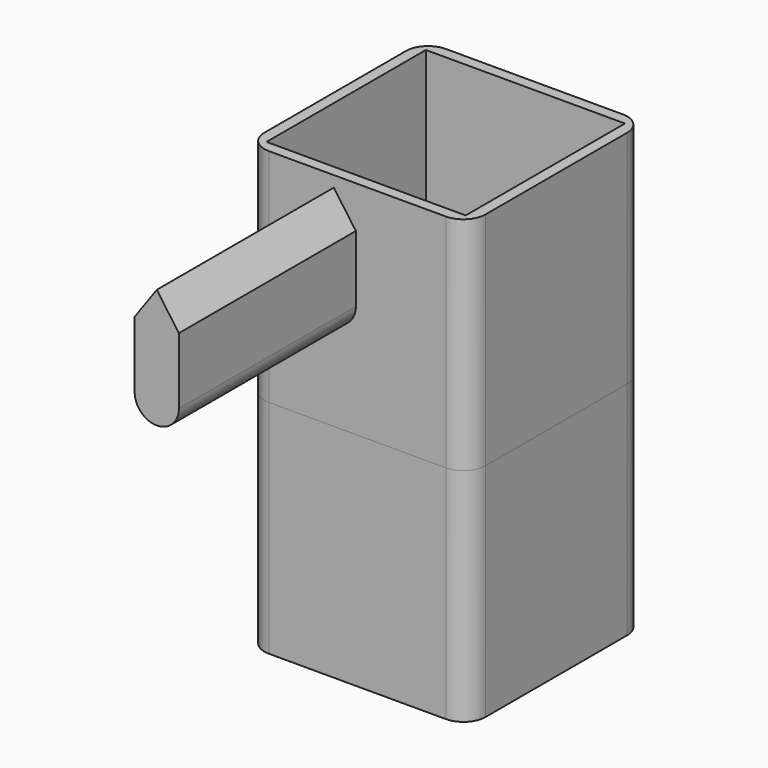
from build123d import *

# Parameters (mm, degrees)
F0_W     = 50
F0_H     = 50
F1_DEPTH = 50
F2_R     = 5
F3_DEPTH = 50
F4_W     = 50
F4_H     = 50
F5_DEPTH = 50
F7_DEPTH = 50
F8_T     = -2.5
F9_R     = 5
F10_T    = -2.5
F11_R    = 5


with BuildPart() as f1:
    # F0 (on Top) → F1 (new body)
    with BuildSketch(Plane.XY):
        with Locations((-25, -25)):
            Rectangle(F0_W, F0_H)
    extrude(amount=F1_DEPTH)

    # F2 (on face) → F3 (cut)
    with BuildSketch(Plane.XY.offset(50)):
        with Locations((-25, -25)):
            Circle(F2_R)
    extrude(amount=-F3_DEPTH, mode=Mode.SUBTRACT)

    # F8
    f8_openings = [f1.faces().sort_by_distance(p)[0] for p in [
        (-25, -0.707107, 0),
    ]]
    offset(amount=F8_T, openings=f8_openings)

    # F9
    f9_edges = [f1.edges().sort_by_distance(p)[0] for p in [
        (-50, -50, 25),
        (-50, 0, 25),
        (0, -50, 25),
        (0, 0, 25),
    ]]
    fillet(f9_edges, radius=F9_R)


with BuildPart() as f5:
    # F4 (on face) → F5 (new body)
    with BuildSketch(Plane.XY.offset(50)):
        with Locations((-25, -25)):
            Rectangle(F4_W, F4_H)
    extrude(amount=F5_DEPTH)

    # F6 (on face) → F7 (join)
    with BuildSketch(Plane.XZ.offset(50)):
        with BuildLine():
            Line((-30.313282162, 97.5077600479), (-35.313282162, 90.5077600479))
            Line((-35.313282162, 90.5077600479), (-35.313282162, 75.5077600479))
            ThreePointArc((-35.313282162, 75.5077600479), (-30.313282162, 70.5077600479), (-25.313282162, 75.5077600479))
            Line((-25.313282162, 75.5077600479), (-25.313282162, 90.5077600479))
            Line((-25.313282162, 90.5077600479), (-30.313282162, 97.5077600479))
        make_face()
    extrude(amount=F7_DEPTH)

    # F10
    f10_openings = [f5.faces().sort_by_distance(p)[0] for p in [
        (-25, -25, 100),
    ]]
    offset(amount=F10_T, openings=f10_openings, kind=Kind.INTERSECTION)

    # F11
    f11_edges = [f5.edges().sort_by_distance(p)[0] for p in [
        (-50, 0, 75),
        (-50, -50, 75),
        (0, 0, 75),
        (0, -50, 75),
    ]]
    fillet(f11_edges, radius=F11_R)


solid = Compound([f1.part, f5.part])
